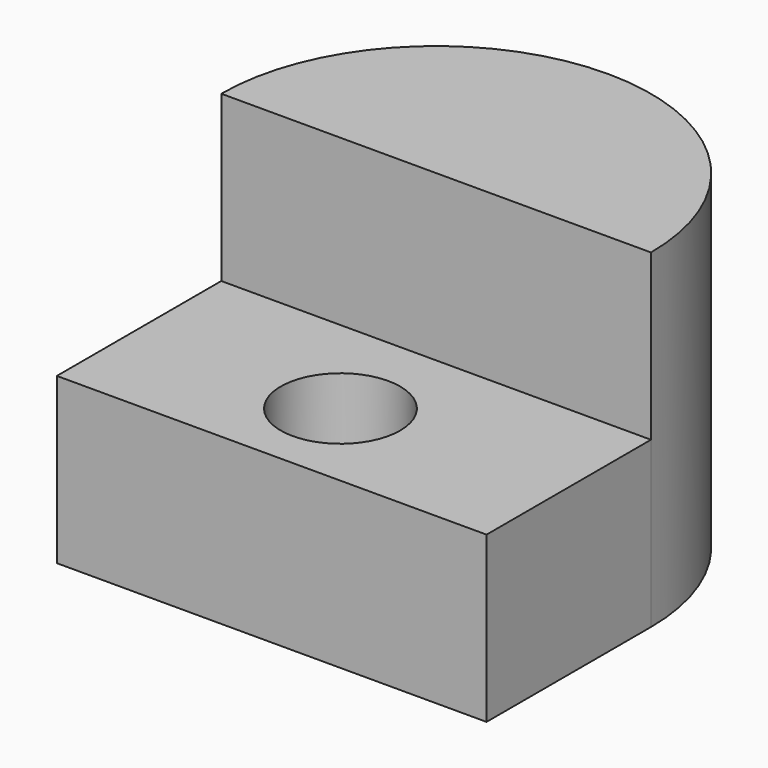
from build123d import *

# Parameters (mm, degrees)
F1_DEPTH = 50.8
F0_W     = 66.195322
F0_H     = 31.658632
F0_R     = 9.196288
F2_DEPTH = 25.4


with BuildPart() as f1:
    # F0 (on Top) → F1 (new body)
    with BuildSketch(Plane.XY):
        with BuildLine():
            ThreePointArc((45.473307, 8.921978), (12.375646, 42.019639), (-20.722015, 8.921978))
            Line((-20.722015, 8.921978), (45.473307, 8.921978))
        make_face()
    extrude(amount=F1_DEPTH)

    # F0 (on Top) → F2 (join)
    with BuildSketch(Plane.XY):
        with BuildLine():
            ThreePointArc((45.473307, 8.921978), (12.375646, 42.019639), (-20.722015, 8.921978))
            Line((-20.722015, 8.921978), (45.473307, 8.921978))
        make_face()
        with Locations((12.375646, -6.907338)):
            Rectangle(F0_W, F0_H)
        with Locations((11.224426, -8.058561)):
            Circle(F0_R, mode=Mode.SUBTRACT)
    extrude(amount=F2_DEPTH)


solid = f1.part
